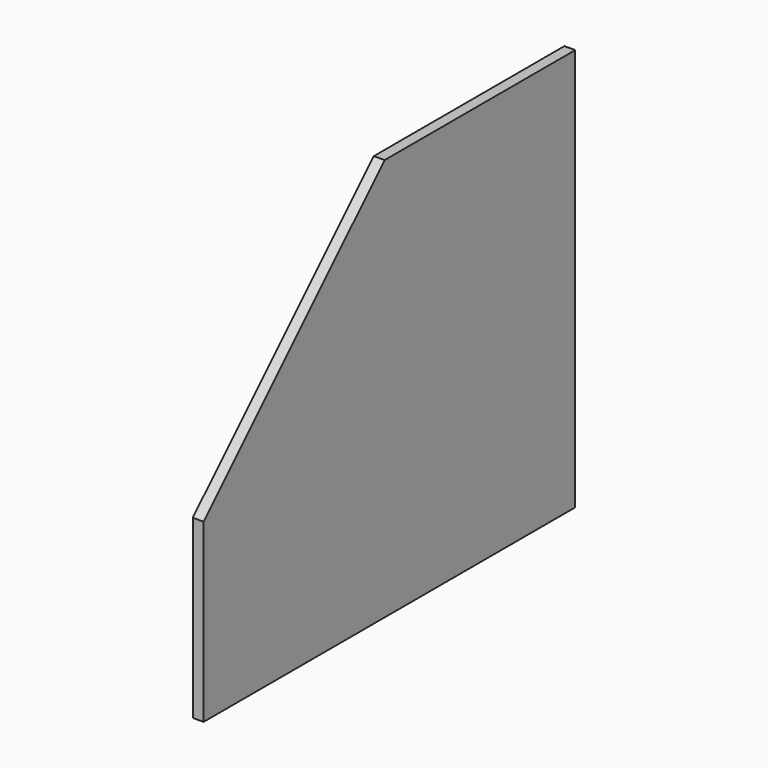
from build123d import *

# Parameters (mm, degrees)
F2_DEPTH = 19
F4_DEPTH = 19


with BuildPart() as f2:
    # F1 (on Right) → F2 (new body)
    with BuildSketch(Plane.YZ):
        Polygon((0, 527), (0, 0), (600, 0), (600, 708), (181, 708), align=None)
    extrude(amount=F2_DEPTH)


with BuildPart() as f4:
    # F3 (on Right) → F4 (new body)
    with BuildSketch(Plane.YZ):
        Polygon((181, 708), (0, 527), (-217, 310), (-217, 0), (0, 0), (600, 0), (600, 708), align=None)
    extrude(amount=F4_DEPTH)


solid = Compound([f2.part, f4.part])
